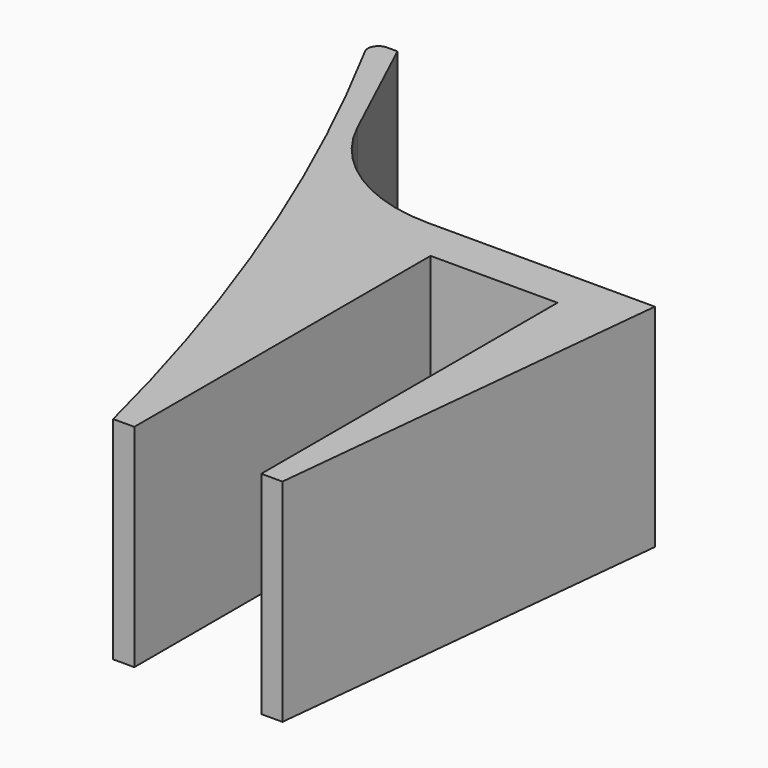
from build123d import *

# Parameters (mm, degrees)
PAD_DEPTH = 20


with BuildPart() as part:
    # Sketch → Pad (new body)
    with BuildSketch(Plane.XY):
        with BuildLine():
            Line((0, 0), (0, -35))
            Line((0, -35), (2, -35))
            Line((2, -35), (6, 4))
            Line((6, 4), (-15.443946, 4))
            ThreePointArc((-29.038563, 12.660726), (-23.50344, 6.349128), (-15.443946, 4))
            Line((-29.038563, 12.660726), (-34.326153, 24))
            Line((-34.326153, 24), (-35.326153, 24))
            ThreePointArc((-35.326153, 24), (-36.184185, 23.513597), (-36.207518, 22.527564))
            ThreePointArc((-14, -35), (-23.323239, -5.548879), (-36.207518, 22.527564))
            Line((-14, -35), (-12, -35))
            Line((-12, -35), (-12, 0))
            Line((-12, 0), (0, 0))
        make_face()
    extrude(amount=PAD_DEPTH)


solid = part.part
